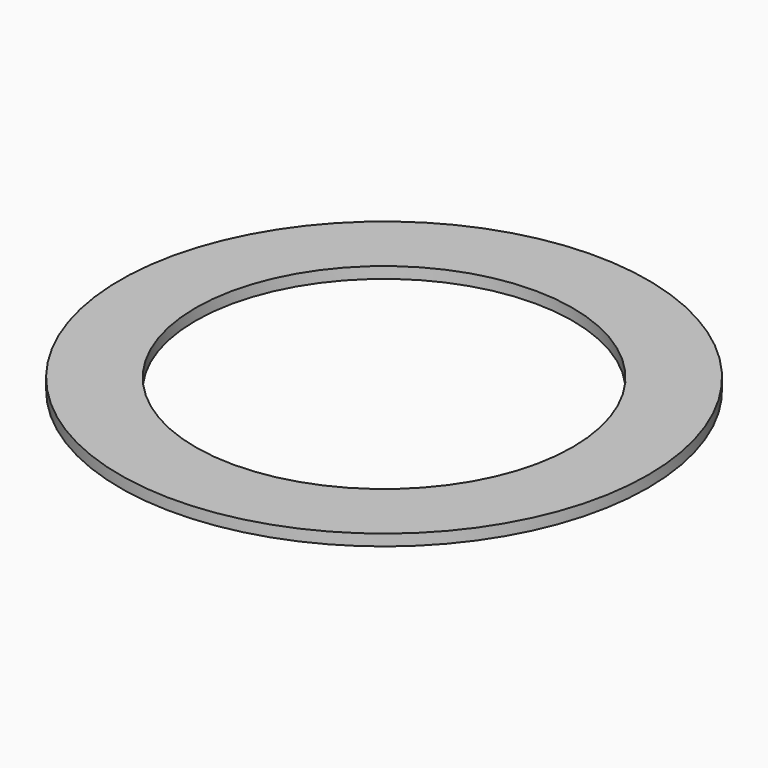
from build123d import *

# Parameters (mm, degrees)
SKETCH_R             = 70
PAD_DEPTH            = 3
SKETCH001_R          = 57.5
POCKET_DEPTH         = 1
SKETCH002_R          = 55
PAD001_DEPTH         = 3
SKETCH003_R          = 50
POCKET001_DEPTH      = 0.001
POCKET001_DEPTH_BACK = -3.001


with BuildPart() as part:
    # Sketch → Pad (new body)
    with BuildSketch(Plane.XY):
        Circle(SKETCH_R)
    extrude(amount=PAD_DEPTH)

    # Sketch001 → Pocket (cut)
    with BuildSketch(Plane.XY):
        Circle(SKETCH001_R)
    extrude(amount=POCKET_DEPTH, mode=Mode.SUBTRACT)

    # Sketch002 → Pad001 (join)
    with BuildSketch(Plane.XY):
        Circle(SKETCH002_R)
    extrude(amount=PAD001_DEPTH)

    # Sketch003 → Pocket001 (cut, two sides)
    with BuildSketch(Plane.XY) as pocket001_sk:
        Circle(SKETCH003_R)
    extrude(amount=-POCKET001_DEPTH, mode=Mode.SUBTRACT)
    extrude(pocket001_sk.sketch, amount=-POCKET001_DEPTH_BACK, mode=Mode.SUBTRACT)


solid = part.part
